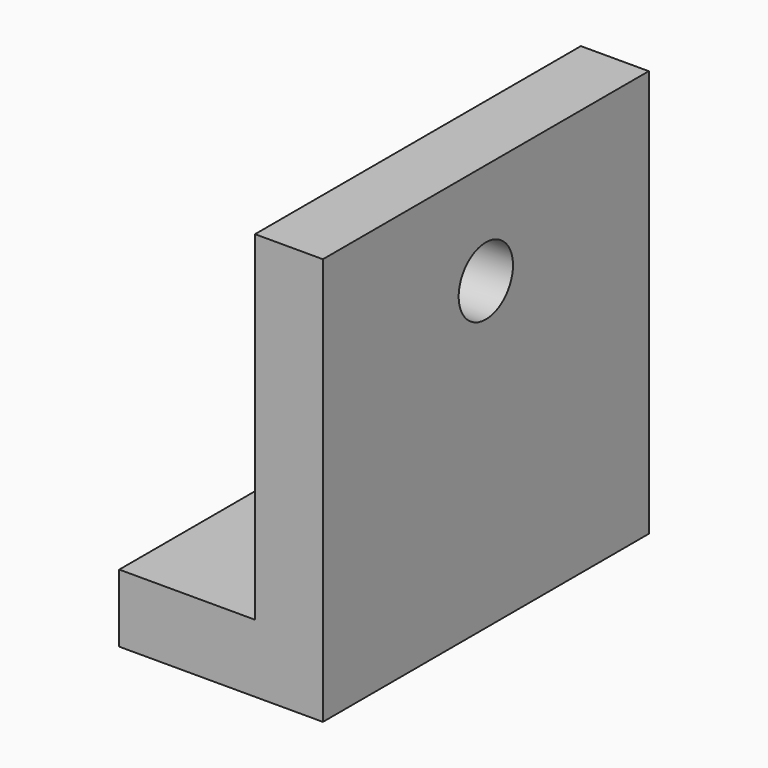
from build123d import *

# Parameters (mm, degrees)
F1_DEPTH = 30
F2_R     = 5
F3_DEPTH = 28.448
F5_DEPTH = 25.4


with BuildPart() as f1:
    # F0 (on Front) → F1 (new body, symmetric)
    with BuildSketch(Plane.XZ):
        Polygon((-30, 0), (0, 0), (0, 60), (-10, 60), (-10, 10), (-30, 10), align=None)
    extrude(amount=F1_DEPTH, both=True)

    # F2 (on face) → F3 (cut)
    with BuildSketch(Plane.YZ):
        with Locations((0, 45)):
            Circle(F2_R)
    extrude(amount=-F3_DEPTH, mode=Mode.SUBTRACT)

    # F4 (on face) → F5 (cut)
    with BuildSketch(Plane.XY.offset(10)):
        with BuildLine():
            Line((-25, 5), (-30, 5))
            Line((-30, 5), (-30, -5))
            Line((-30, -5), (-25, -5))
            ThreePointArc((-25, -5), (-20, 0), (-25, 5))
        make_face()
    extrude(amount=-F5_DEPTH, mode=Mode.SUBTRACT)


solid = f1.part
